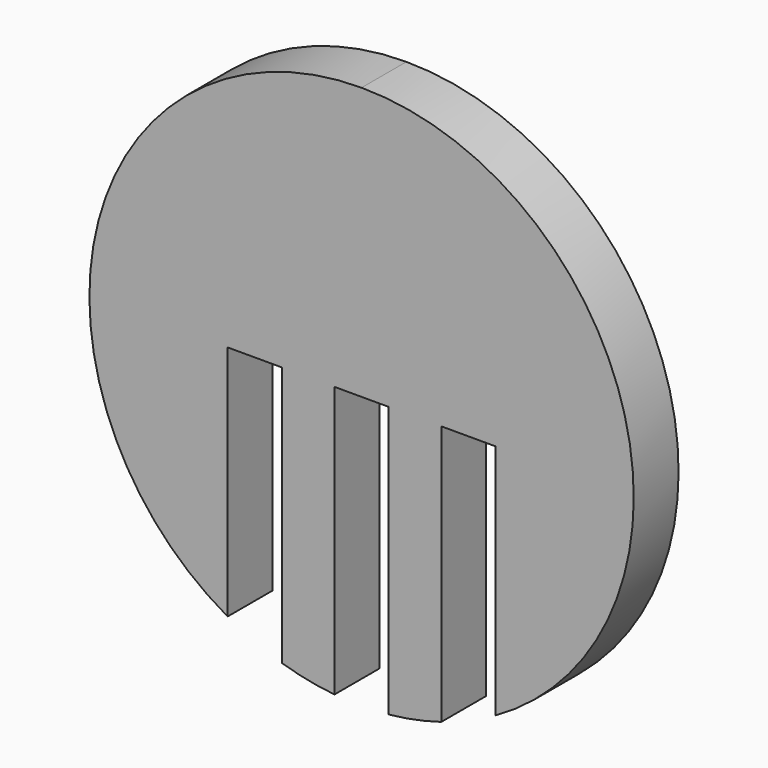
from build123d import *

# Parameters (mm, degrees)
F1_DEPTH = 3


with BuildPart() as f1:
    # F0 (on Front) → F1 (new body)
    with BuildSketch(Plane.XZ):
        with BuildLine():
            ThreePointArc((7.167446, -12.679109), (14.085457, 3.70567), (0, 14.564755))
            ThreePointArc((0, 14.564755), (-14.085457, 3.70567), (-7.167446, -12.679109))
            Line((-7.167446, -12.679109), (-7.167446, 0))
            Line((-7.167446, 0), (-4.267446, 0))
            Line((-4.267446, 0), (-4.267446, -13.925551))
            ThreePointArc((-4.267446, -13.925551), (-2.872739, -14.278636), (-1.45, -14.492397))
            Line((-1.45, -14.492397), (-1.45, 0))
            Line((-1.45, 0), (0, 0))
            Line((0, 0), (1.45, 0))
            Line((1.45, 0), (1.45, -14.492397))
            ThreePointArc((1.45, -14.492397), (2.872739, -14.278636), (4.267446, -13.925551))
            Line((4.267446, -13.925551), (4.267446, 0))
            Line((4.267446, 0), (7.167446, 0))
            Line((7.167446, 0), (7.167446, -12.679109))
        make_face()
        with BuildLine():
            ThreePointArc((7.167446, -12.679109), (14.085457, 3.70567), (0, 14.564755))
            ThreePointArc((0, 14.564755), (-14.085457, 3.70567), (-7.167446, -12.679109))
            Line((-7.167446, -12.679109), (-7.167446, 0))
            Line((-7.167446, 0), (-4.267446, 0))
            Line((-4.267446, 0), (-4.267446, -13.925551))
            ThreePointArc((-4.267446, -13.925551), (-2.872739, -14.278636), (-1.45, -14.492397))
            Line((-1.45, -14.492397), (-1.45, 0))
            Line((-1.45, 0), (0, 0))
            Line((0, 0), (1.45, 0))
            Line((1.45, 0), (1.45, -14.492397))
            ThreePointArc((1.45, -14.492397), (2.872739, -14.278636), (4.267446, -13.925551))
            Line((4.267446, -13.925551), (4.267446, 0))
            Line((4.267446, 0), (7.167446, 0))
            Line((7.167446, 0), (7.167446, -12.679109))
        make_face()
    extrude(amount=F1_DEPTH)


solid = f1.part
